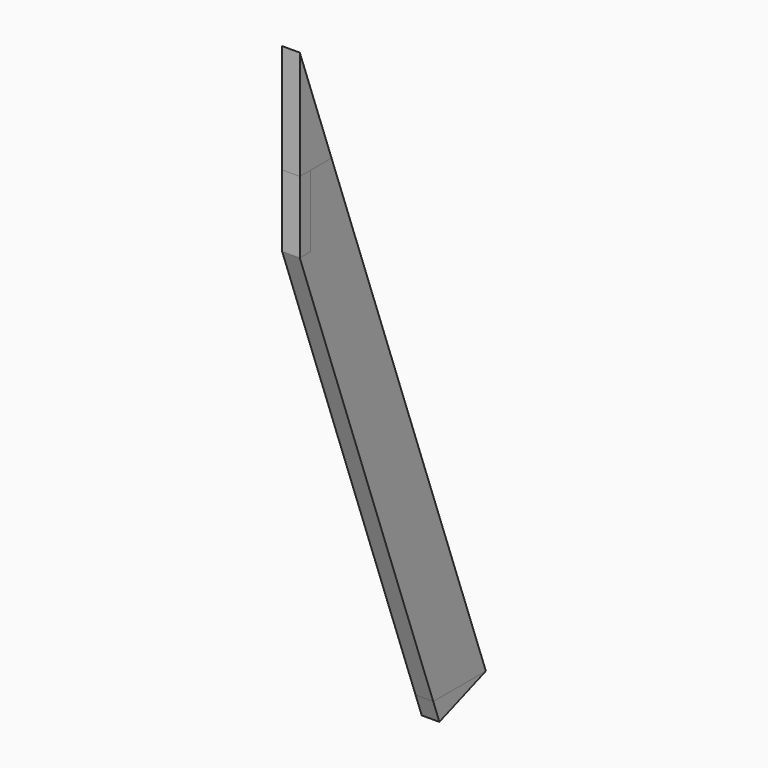
from build123d import *

# Parameters (mm, degrees)
F1_DEPTH = 25.4
F2_DEPTH = 25.4
F0_W     = 19.05
F0_H     = 103.1875
F3_DEPTH = 25.4
F4_DEPTH = 25.4


with BuildPart() as f1:
    # F0 (on Right) → F1 (new body)
    with BuildSketch(Plane.YZ):
        Polygon((62.601827, 341.388148), (62.601827, 184.649437), (81.651827, 184.649437), (119.650053, 184.649437), align=None)
    extrude(amount=F1_DEPTH)


with BuildPart() as f2:
    # F0 (on Right) → F2 (new body)
    with BuildSketch(Plane.YZ):
        Polygon((81.651827, 81.461937), (62.601827, 81.461937), (302.457922, -577.537266), (397.063326, -577.537266), (119.650053, 184.649437), (81.651827, 184.649437), align=None)
    extrude(amount=F2_DEPTH)


with BuildPart() as f3:
    # F0 (on Right) → F3 (new body)
    with BuildSketch(Plane.YZ):
        with Locations((72.126827, 133.055687)):
            Rectangle(F0_W, F0_H)
    extrude(amount=F3_DEPTH)


with BuildPart() as f4:
    # F0 (on Right) → F4 (new body)
    with BuildSketch(Plane.YZ):
        Polygon((397.063326, -577.537266), (302.457922, -577.537266), (313.524652, -607.942857), align=None)
    extrude(amount=F4_DEPTH)


solid = Compound([f1.part, f2.part, f3.part, f4.part])
